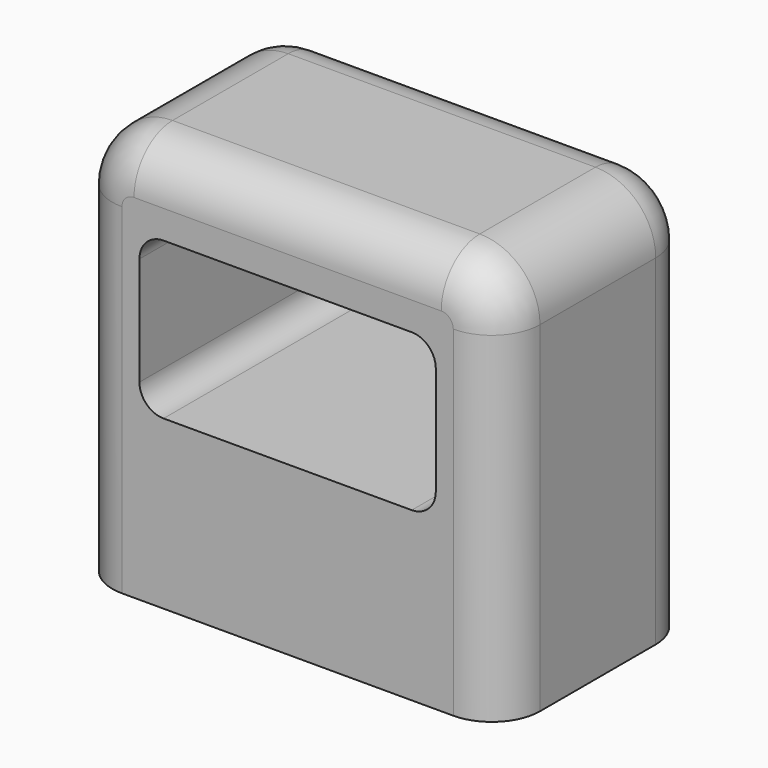
from build123d import *

# Parameters (mm, degrees)
SKETCH042_W     = 17.75
SKETCH042_H     = 10
PAD023_DEPTH    = 16.625
SKETCH043_W     = 12.3
SKETCH043_H     = 6.5
POCKET020_DEPTH = 10
FILLET013_R     = 1
FILLET014_R     = 2.5
FILLET015_R     = 2
FILLET016_R     = 2
SKETCH044_R     = 1.6
PAD024_DEPTH    = 2.5
FILLET017_R     = 1


with BuildPart() as part:
    # Sketch042 → Pad023 (new body)
    with BuildSketch(Plane.XY):
        Rectangle(SKETCH042_W, SKETCH042_H)
    extrude(amount=PAD023_DEPTH)

    # Sketch043 (on Face3 of Pad023) → Pocket020 (cut)
    with BuildSketch(Plane.XZ.offset(5)):
        with Locations((0, 10.2)):
            Rectangle(SKETCH043_W, SKETCH043_H)
    extrude(amount=-POCKET020_DEPTH, mode=Mode.SUBTRACT)

    # Fillet013
    fillet013_edges = [part.edges().sort_by_distance(p)[0] for p in [
        (-6.15, 0, 13.45),
        (6.15, 0, 13.45),
        (6.15, 0, 6.95),
        (-6.15, 0, 6.95),
    ]]
    fillet(fillet013_edges, radius=FILLET013_R)

    # Fillet014
    fillet014_edges = [part.edges().sort_by_distance(p)[0] for p in [
        (8.875, 0, 16.625),
        (-8.875, 0, 16.625),
    ]]
    fillet(fillet014_edges, radius=FILLET014_R)

    # Fillet015
    fillet015_edges = [part.edges().sort_by_distance(p)[0] for p in [
        (8.875, 5, 7.0625),
        (-8.875, 5, 7.0625),
    ]]
    fillet(fillet015_edges, radius=FILLET015_R)

    # Fillet016
    fillet016_edges = [part.edges().sort_by_distance(p)[0] for p in [
        (0, -5, 16.625),
    ]]
    fillet(fillet016_edges, radius=FILLET016_R)

    # Sketch044 → Pad024 (join)
    with BuildSketch(Plane.XY):
        with BuildLine():
            Line((-6, 8), (-6, 0))
            Line((-6, 0), (4, 0))
            Line((4, 8), (4, 0))
            ThreePointArc((4, 8), (-1, 13), (-6, 8))
        make_face()
        with Locations((-1, 8)):
            Circle(SKETCH044_R, mode=Mode.SUBTRACT)
    extrude(amount=PAD024_DEPTH)

    # Fillet017
    fillet017_edges = [part.edges().sort_by_distance(p)[0] for p in [
        (-6, 6.5, 2.5),
        (-1, 13, 2.5),
        (4, 6.5, 2.5),
    ]]
    fillet(fillet017_edges, radius=FILLET017_R)


solid = part.part
